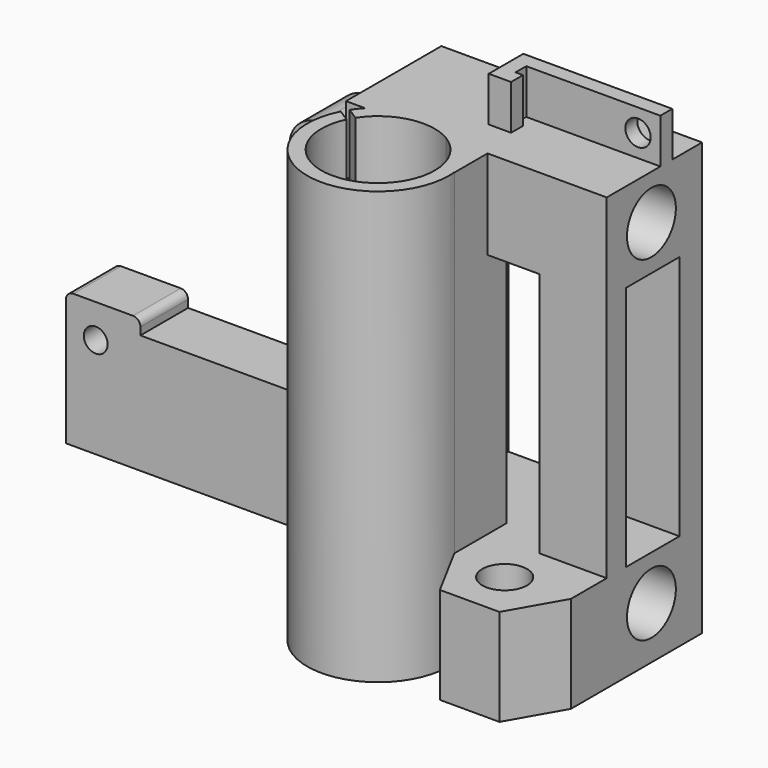
from build123d import *

# Parameters (mm, degrees)
PAD_DEPTH       = 58
SKETCH001_R     = 9.5
SKETCH001_R_2   = 7.6
PAD001_DEPTH    = 58
SKETCH002_R     = 7.6
SKETCH002_R_2   = 3
POCKET_DEPTH    = 58
SKETCH003_R     = 4.1
SKETCH003_W     = 9
SKETCH003_H     = 33
POCKET001_DEPTH = 55
SKETCH004_W     = 16
SKETCH004_H     = 13
POCKET002_DEPTH = 45
PAD002_DEPTH    = 58
SKETCH006_R     = 1.6
POCKET003_DEPTH = 17
SKETCH007_W     = 18
SKETCH007_H     = 58
POCKET004_DEPTH = 25
SKETCH008_W     = 17
SKETCH008_H     = 33
POCKET005_DEPTH = 5
SKETCH009_W     = 7
SKETCH009_H     = 33
POCKET006_DEPTH = 5
SKETCH010_W     = 8
SKETCH010_H     = 49
POCKET007_DEPTH = 45
SKETCH011_W     = 4
SKETCH011_H     = 17
POCKET008_DEPTH = 20
POCKET009_DEPTH = 58
SKETCH013_W     = 20
SKETCH013_H     = 5.8
SKETCH013_W_2   = 17.2
SKETCH013_H_2   = 1.8
PAD003_DEPTH    = 6
SKETCH014_W     = 17
SKETCH014_H     = 6
POCKET010_DEPTH = 3.8
SKETCH015_R     = 1.7
POCKET011_DEPTH = 27.001
FILLET_R        = 1
FILLET001_R     = 4


with BuildPart() as part:
    # Sketch → Pad (new body)
    with BuildSketch(Plane(origin=(-133, 0, 90), x_dir=(1, 0, 0), z_dir=(0, 0, 1))):
        Polygon((-47.676132, 21.976631), (5.323868, 21.976631), (5.323868, 5.976631), (-12.676132, 5.976631), (-12.676132, -0.023369), (-16.676132, -7.023369), (-24.676132, -7.023369), (-31.676132, 5.976631), (-47.676132, 5.976631), align=None)
    extrude(amount=PAD_DEPTH)

    # Sketch001 → Pad001 (new body)
    with BuildSketch(Plane(origin=(-133, 0, 148), x_dir=(1, 0, 0), z_dir=(0, 0, 1))):
        with Locations((-38.176132, -0.523369)):
            Circle(SKETCH001_R)
        with Locations((-38.176132, -0.523369)):
            Circle(SKETCH001_R_2, mode=Mode.SUBTRACT)
    extrude(amount=-PAD001_DEPTH)

    # Sketch002 → Pocket (cut)
    with BuildSketch(Plane(origin=(-133, 0, 148), x_dir=(1, 0, 0), z_dir=(0, 0, 1))):
        with Locations((-38.176132, -0.523369)):
            Circle(SKETCH002_R)
        with Locations((-21.176132, -0.523369)):
            Circle(SKETCH002_R_2)
    extrude(amount=-POCKET_DEPTH, mode=Mode.SUBTRACT)

    # Sketch003 → Pocket001 (cut)
    with BuildSketch(Plane(origin=(-180.676132, 0, 90), x_dir=(0, -1, 0), z_dir=(-1, 0, 0))):
        with Locations((-13.476631, 52)):
            Circle(SKETCH003_R)
        with Locations((-13.476631, 7)):
            Circle(SKETCH003_R)
        with Locations((-13.676631, 29.5)):
            Rectangle(SKETCH003_W, SKETCH003_H)
    extrude(amount=-POCKET001_DEPTH, mode=Mode.SUBTRACT)

    # Sketch004 → Pocket002 (cut)
    with BuildSketch(Plane(origin=(-133, 0, 148), x_dir=(1, 0, 0), z_dir=(0, 0, 1))):
        with Locations((-20.676132, -0.523369)):
            Rectangle(SKETCH004_W, SKETCH004_H)
    extrude(amount=-POCKET002_DEPTH, mode=Mode.SUBTRACT)

    # Sketch005 → Pad002 (new body)
    with BuildSketch(Plane(origin=(-133, 0, 148), x_dir=(1, 0, 0), z_dir=(0, 0, 1))):
        Polygon((-47.676132, 21.976631), (-91.676132, 21.976631), (-91.676132, 11.976631), (-81.676132, 11.976631), (-47.676132, 5.976631), align=None)
    extrude(amount=-PAD002_DEPTH)

    # Sketch006 → Pocket003 (cut)
    with BuildSketch(Plane(origin=(-133, 21.976631, 90), x_dir=(-1, 0, 0), z_dir=(0, 1, 0))):
        with Locations((56.676132, 44.5)):
            Circle(SKETCH006_R)
        with Locations((56.676132, 13.5)):
            Circle(SKETCH006_R)
        with Locations((87.676132, 13.5)):
            Circle(SKETCH006_R)
        Polygon((91.676132, 18), (81.676132, 18), (81.676132, 16), (59.676132, 16), (59.676132, 39), (61.676132, 39), (61.676132, 49), (47.676132, 49), (47.676132, 58), (91.676132, 58), align=None)
    extrude(amount=-POCKET003_DEPTH, mode=Mode.SUBTRACT)

    # Sketch007 → Pocket004 (cut)
    with BuildSketch(Plane(origin=(-133, 5.976631, 90), x_dir=(1, 0, 0), z_dir=(0, -1, 0))):
        with Locations((-3.676132, 29)):
            Rectangle(SKETCH007_W, SKETCH007_H)
    extrude(amount=-POCKET004_DEPTH, mode=Mode.SUBTRACT)

    # Sketch008 → Pocket005 (cut)
    with BuildSketch(Plane(origin=(-133, 21.976631, 90), x_dir=(-1, 0, 0), z_dir=(0, 1, 0))):
        with Locations((30.176132, 29.5)):
            Rectangle(SKETCH008_W, SKETCH008_H)
    extrude(amount=-POCKET005_DEPTH, mode=Mode.SUBTRACT)

    # Sketch009 → Pocket006 (cut)
    with BuildSketch(Plane(origin=(-133, 5.976631, 90), x_dir=(1, 0, 0), z_dir=(0, -1, 0))):
        with Locations((-25.176132, 29.5)):
            Rectangle(SKETCH009_W, SKETCH009_H)
    extrude(amount=-POCKET006_DEPTH, mode=Mode.SUBTRACT)

    # Sketch010 → Pocket007 (cut)
    with BuildSketch(Plane(origin=(-224.676132, 0, 90), x_dir=(0, -1, 0), z_dir=(-1, 0, 0))):
        with Locations((-9.976631, 24.5)):
            Rectangle(SKETCH010_W, SKETCH010_H)
    extrude(amount=-POCKET007_DEPTH, mode=Mode.SUBTRACT)

    # Sketch011 → Pocket008 (cut)
    with BuildSketch(Plane(origin=(-192.676132, 0, 90), x_dir=(0, -1, 0), z_dir=(-1, 0, 0))):
        with Locations((-15.976631, 27.5)):
            Rectangle(SKETCH011_W, SKETCH011_H)
    extrude(amount=-POCKET008_DEPTH, mode=Mode.SUBTRACT)

    # Sketch012 → Pocket009 (cut)
    with BuildSketch(Plane(origin=(-133, 0, 148), x_dir=(1, 0, 0), z_dir=(0, 0, 1))):
        Polygon((-38.722618, -1.360837), (-49.563332, 5.713227), (-49.016846, 6.550695), (-38.176132, -0.523369), align=None)
    extrude(amount=-POCKET009_DEPTH, mode=Mode.SUBTRACT)

    # Sketch013 → Pad003 (new body)
    with BuildSketch(Plane(origin=(-133, 0, 148), x_dir=(1, 0, 0), z_dir=(0, 0, 1))):
        with Locations((-22.676132, 14.076631)):
            Rectangle(SKETCH013_W, SKETCH013_H)
        with Locations((-22.076132, 14.076631)):
            Rectangle(SKETCH013_W_2, SKETCH013_H_2, mode=Mode.SUBTRACT)
    extrude(amount=PAD003_DEPTH)

    # Sketch014 → Pocket010 (cut)
    with BuildSketch(Plane(origin=(-133, 11.176631, 90), x_dir=(1, 0, 0), z_dir=(0, -1, 0))):
        with Locations((-21.176132, 61)):
            Rectangle(SKETCH014_W, SKETCH014_H)
    extrude(amount=-POCKET010_DEPTH, mode=Mode.SUBTRACT)

    # Sketch015 → Pocket011 (cut, through all)
    with BuildSketch(Plane(origin=(-133, 16.976631, 90), x_dir=(-1, 0, 0), z_dir=(0, 1, 0))):
        with Locations((15.676132, 61)):
            Circle(SKETCH015_R)
    extrude(amount=-POCKET011_DEPTH, mode=Mode.SUBTRACT)

    # Fillet
    fillet_edges = [part.edges().sort_by_distance(p)[0] for p in [
        (-224.676132, 17.976631, 108),
        (-194.676132, 17.976631, 129),
        (-214.676132, 17.976631, 108),
    ]]
    fillet(fillet_edges, radius=FILLET_R)

    # Fillet001
    fillet001_edges = [part.edges().sort_by_distance(p)[0] for p in [
        (-194.676132, 17.976631, 139),
    ]]
    fillet(fillet001_edges, radius=FILLET001_R)


solid = part.part
